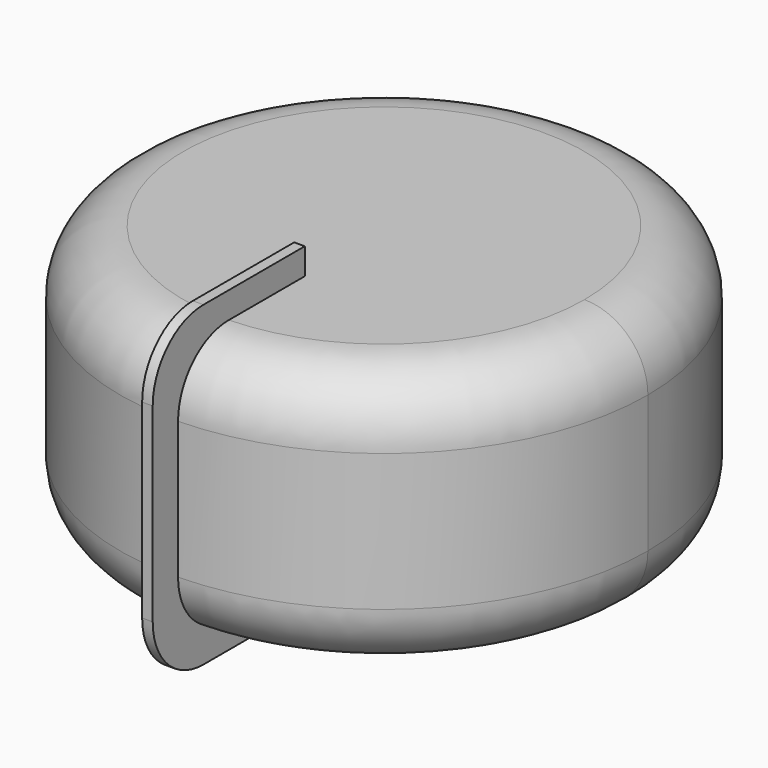
from build123d import *

# Parameters (mm, degrees)
F0_R     = 25
F1_DEPTH = 12.5
F2_R     = 6
F4_DEPTH = 0.5


with BuildPart() as f1:
    # F0 (on Top) → F1 (new body, symmetric)
    with BuildSketch(Plane.XY):
        Circle(F0_R)
    extrude(amount=F1_DEPTH, both=True)

    # F2
    f2_edges = [f1.edges().sort_by_distance(p)[0] for p in [
        (-25, 0, 12.5),
        (-25, 0, -12.5),
    ]]
    fillet(f2_edges, radius=F2_R)

    # F3 (on Right) → F4 (join, symmetric)
    with BuildSketch(Plane.YZ):
        with BuildLine():
            Line((-22, -15), (-10, -15))
            Line((-10, -15), (-10, 15))
            Line((-10, 15), (-22, 15))
            ThreePointArc((-22, 15), (-26.242641, 13.242641), (-28, 9))
            Line((-28, 9), (-28, -9))
            ThreePointArc((-28, -9), (-26.242641, -13.242641), (-22, -15))
        make_face()
    extrude(amount=F4_DEPTH, both=True)


solid = f1.part
